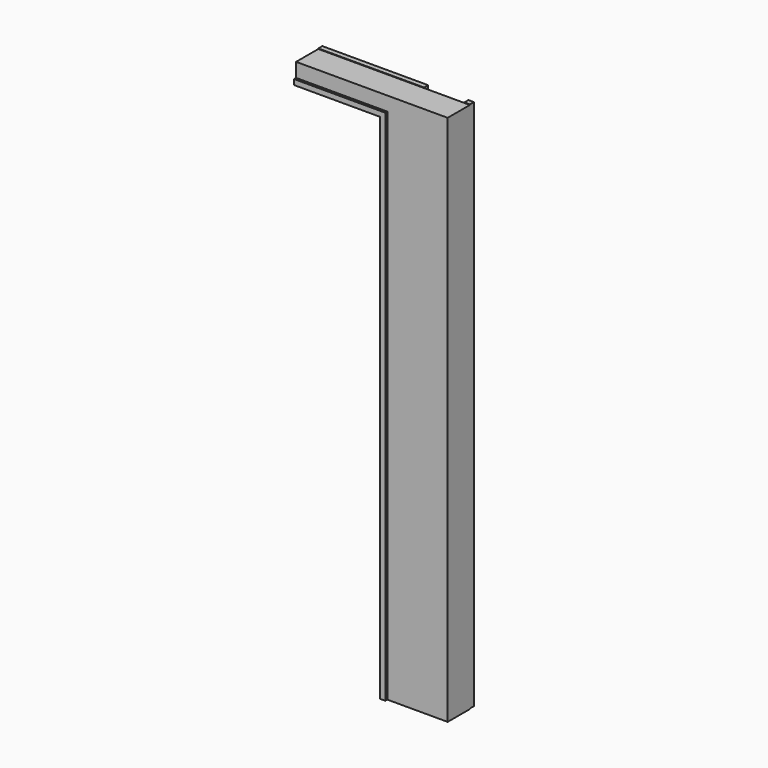
from build123d import *

# Parameters (mm, degrees)
F1_DEPTH = 110
F3_DEPTH = 10
F4_W     = 5.7648873329
F4_H     = 5.8702230453
F6_W     = 22
F6_H     = 20


with BuildPart() as f1:
    # F0 (on Front) → F1 (new body)
    with BuildSketch(Plane.XZ):
        Polygon((0, -2105), (0, 0), (-600, 0), (-600, -77), (-260, -77), (-260, -2105), align=None)
    extrude(amount=-F1_DEPTH)

    # F2 (on face) → F3 (join)
    with BuildSketch(Plane.XZ):
        Polygon((-239, -56), (-600, -56), (-600, -77), (-260, -77), (-260, -2105), (-239, -2105), align=None)
    extrude(amount=F3_DEPTH)

    # F5: sweep along a path in F5_path
    with BuildLine(Plane(origin=(-600, 110, -77), x_dir=(0, 0, 1), z_dir=(0, -1, 0))) as f5_path:
        Line((0, 0), (0, -340))
        Line((0, -340), (-2028, -340))
    # F4 (on face) → F5 (sweep)
    with BuildSketch(Plane(origin=(-600, 0, 0), x_dir=(0, -1, 0), z_dir=(-1, 0, 0))):
        with Locations((-107.1175563335, -74.0648884773)):
            Rectangle(F4_W, F4_H)
        Polygon((-104.2351126671, -77), (-110, -77), (-110, -85), (-33, -85), (-33, -77), align=None)
        Polygon((-130, -77), (-110, -77), (-110, -71.1297769547), (-110, 0), (-110, 2), (-130, 2), align=None)
    sweep(path=f5_path.line, transition=Transition.RIGHT)

    # F7: sweep along a path in F7_path
    with BuildLine(Plane(origin=(0, 110, 0), x_dir=(0, 0, 1), z_dir=(0, -1, 0))) as f7_path:
        Line((0, 0), (-2105, 0))
    # F6 (on face) → F7 (sweep)
    with BuildSketch(Plane.XY.offset(2)):
        with Locations((-11, 120)):
            Rectangle(F6_W, F6_H)
    sweep(path=f7_path.line)


solid = f1.part
